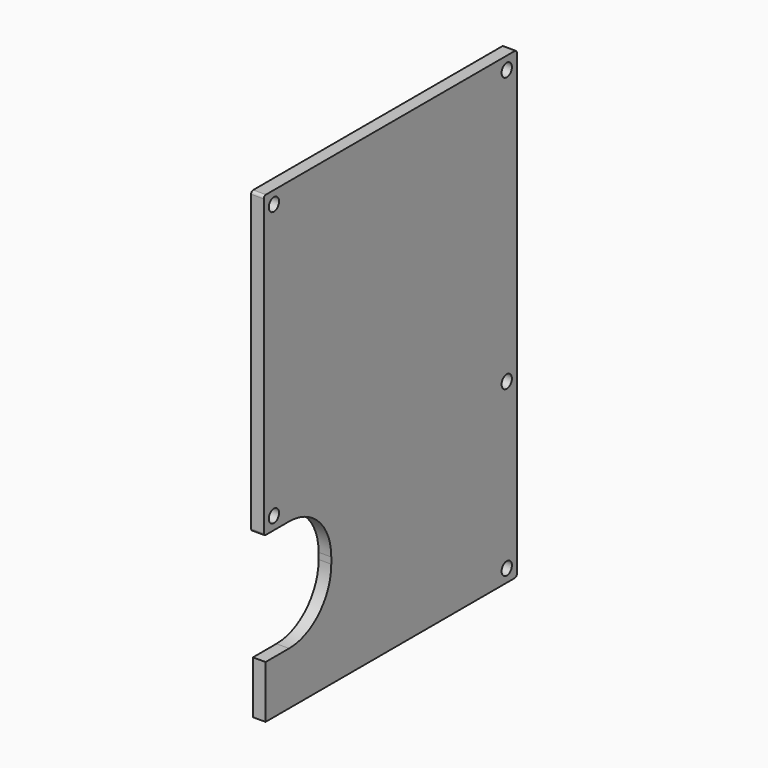
from build123d import *

# Parameters (mm, degrees)
F0_R     = 3.05
F1_DEPTH = 6


with BuildPart() as f1:
    # F0 (on Right) → F1 (new body)
    with BuildSketch(Plane.YZ):
        with BuildLine():
            Line((-53.231705, 0), (-1.27, 0))
            ThreePointArc((-1.27, 0), (-0.371974, 0.371974), (0, 1.27))
            Line((0, 1.27), (0, 218.73))
            ThreePointArc((0, 218.73), (-0.371974, 219.628026), (-1.27, 220))
            Line((-1.27, 220), (-148.73, 220))
            ThreePointArc((-148.73, 220), (-149.628026, 219.628026), (-150, 218.73))
            Line((-150, 218.73), (-150, 79.07))
            ThreePointArc((-150, 79.07), (-149.686604, 78.313396), (-148.93, 78))
            Line((-148.93, 78), (-135, 78))
            ThreePointArc((-135, 78), (-117.32233, 70.67767), (-110, 53))
            Line((-110, 53), (-110, 50))
            ThreePointArc((-110, 50), (-117.32233, 32.32233), (-135, 25))
            Line((-135, 25), (-148.93, 25))
            Line((-148.93, 25), (-148.93, 0))
            Line((-148.93, 0), (-68.73, 0))
            Line((-68.73, 0), (-53.231705, 0))
        make_face()
        with Locations((-144, 84)):
            Circle(F0_R, mode=Mode.SUBTRACT)
        with Locations((-6, 6)):
            Circle(F0_R, mode=Mode.SUBTRACT)
        with Locations((-6, 84)):
            Circle(F0_R, mode=Mode.SUBTRACT)
        with Locations((-144, 214)):
            Circle(F0_R, mode=Mode.SUBTRACT)
        with Locations((-6, 214)):
            Circle(F0_R, mode=Mode.SUBTRACT)
    extrude(amount=F1_DEPTH)


solid = f1.part
